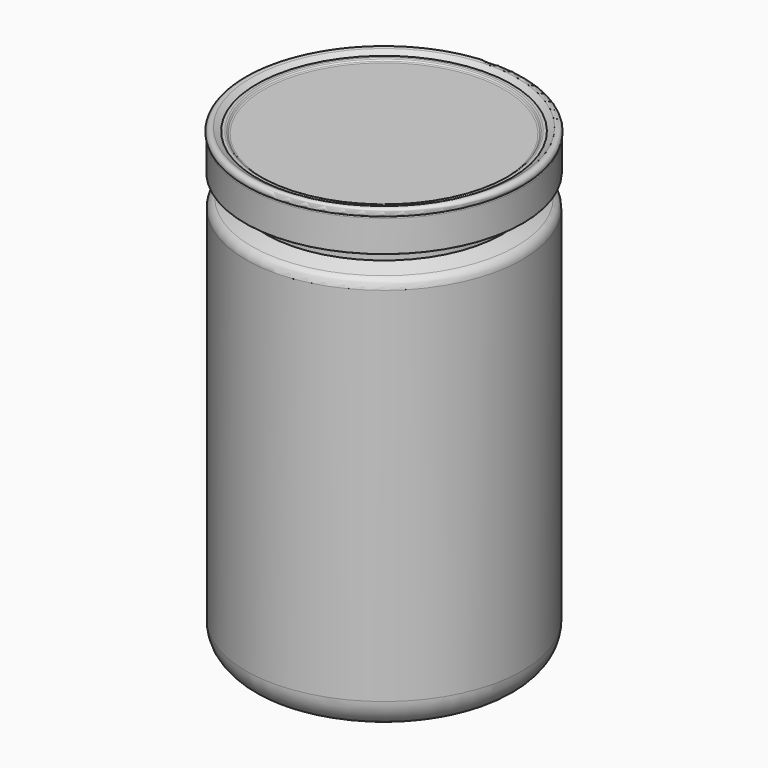
from build123d import *


with BuildPart() as f2:
    # F1 (on Front) → F2 (revolve)
    with BuildSketch(Plane.XZ):
        with BuildLine():
            Line((28.1, 103.3949926496), (28.1, 102.5035533906))
            Line((28.1, 102.5035533906), (32.9468340278, 102.5035533906))
            ThreePointArc((32.9468340278, 102.5035533906), (32.9844280473, 102.5191253433), (33, 102.5567193628))
            Line((33, 102.5567193628), (33, 110.0035533906))
            ThreePointArc((33, 110.0035533906), (32.9700295943, 110.1740590518), (32.883711278, 110.3241242176))
            ThreePointArc((32.883711278, 110.3241242176), (32.1691758877, 110.0037378372), (31.4428633988, 110.2964466094))
            Line((31.4428633988, 110.2964466094), (31.1464466094, 110.5928633988))
            Line((31.1464466094, 110.5928633988), (29.5606601718, 110.5928633988))
            Line((29.5606601718, 110.5928633988), (29.2642433824, 110.2964466094))
            ThreePointArc((29.2642433824, 110.2964466094), (28.9398200336, 110.0796738581), (28.5571366012, 110.0035533906))
            Line((28.5571366012, 110.0035533906), (28.2450320252, 110.0035533906))
            Line((28.2450320252, 110.0035533906), (28.1, 109.9240587884))
            Line((28.1, 109.9240587884), (28.1, 103.3949926496))
        make_face()
        with BuildLine():
            Line((30.2323976094, 111.0928633988), (28.2450320252, 110.0035533906))
            Line((28.2450320252, 110.0035533906), (28.5571366012, 110.0035533906))
            ThreePointArc((28.5571366012, 110.0035533906), (28.9398200336, 110.0796738581), (29.2642433824, 110.2964466094))
            Line((29.2642433824, 110.2964466094), (29.5606601718, 110.5928633988))
            Line((29.5606601718, 110.5928633988), (31.1464466094, 110.5928633988))
            Line((31.1464466094, 110.5928633988), (31.4428633988, 110.2964466094))
            ThreePointArc((31.4428633988, 110.2964466094), (32.1691758877, 110.0037378372), (32.883711278, 110.3241242176))
            ThreePointArc((32.883711278, 110.3241242176), (32.7117954042, 110.4564802133), (32.5, 110.5035533906))
            Line((32.5, 110.5035533906), (32.14997018, 110.5035533906))
            ThreePointArc((32.14997018, 110.5035533906), (31.9586284638, 110.5416136243), (31.7964167894, 110.65))
            Line((31.7964167894, 110.65), (31.5, 110.9464167894))
            ThreePointArc((31.5, 110.9464167894), (31.3377883256, 111.054803165), (31.1464466094, 111.0928633988))
            Line((31.1464466094, 111.0928633988), (30.2323976094, 111.0928633988))
        make_face()
        with BuildLine():
            Line((0, 110.0035533906), (28.2450320252, 110.0035533906))
            Line((28.2450320252, 110.0035533906), (30.2323976094, 111.0928633988))
            Line((30.2323976094, 111.0928633988), (29.5606601718, 111.0928633988))
            ThreePointArc((29.5606601718, 111.0928633988), (29.3693184556, 111.054803165), (29.2071067812, 110.9464167894))
            Line((29.2071067812, 110.9464167894), (28.9106899918, 110.65))
            ThreePointArc((28.9106899918, 110.65), (28.7484783174, 110.5416136243), (28.5571366012, 110.5035533906))
            Line((28.5571366012, 110.5035533906), (0, 110.5035533906))
            Line((0, 110.5035533906), (0, 110.0035533906))
        make_face()
        with BuildLine():
            ThreePointArc((32.5, 110.5035533906), (32.7117954042, 110.4564802133), (32.883711278, 110.3241242176))
            ThreePointArc((32.883711278, 110.3241242176), (32.9383629435, 111.6187256025), (31.6693192814, 111.8804654236))
            Line((31.6693192814, 111.8804654236), (30.2323976094, 111.0928633988))
            Line((30.2323976094, 111.0928633988), (31.1464466094, 111.0928633988))
            ThreePointArc((31.1464466094, 111.0928633988), (31.3377883256, 111.054803165), (31.5, 110.9464167894))
            Line((31.5, 110.9464167894), (31.7964167894, 110.65))
            ThreePointArc((31.7964167894, 110.65), (31.9586284638, 110.5416136243), (32.14997018, 110.5035533906))
            Line((32.14997018, 110.5035533906), (32.5, 110.5035533906))
        make_face()
    revolve(axis=Axis((0, 0, 27.9559288174), (0, 0, 1)))


with BuildPart() as f3:
    # F0 (on Front) → F3 (revolve)
    with BuildSketch(Plane.XZ):
        with BuildLine():
            Line((0, 4.0010205144), (0, 0))
            Line((0, 0), (24, 0))
            Line((24, 0), (25.9, 1.9))
            ThreePointArc((25.9, 1.9), (30.8497474683, 3.9502525317), (32.9, 8.9))
            Line((32.9, 8.9), (32.9, 94.9))
            ThreePointArc((32.9, 94.9), (32.494852076, 96.264402719), (31.4107241762, 97.1865774948))
            Line((31.4107241762, 97.1865774948), (28.1, 98.65))
            Line((28.1, 98.65), (28.1, 109.15))
            ThreePointArc((28.1, 109.15), (27.9535533906, 109.5035533906), (27.6, 109.65))
            Line((27.6, 109.65), (26.6, 109.65))
            ThreePointArc((26.6, 109.65), (26.2464466094, 109.5035533906), (26.1, 109.15))
            Line((26.1, 109.15), (26.1, 98.65))
            ThreePointArc((26.1, 98.65), (26.4241183392, 97.5584778248), (27.291420659, 96.8207380042))
            Line((27.291420659, 96.8207380042), (29.708579341, 95.7522936924))
            ThreePointArc((29.708579341, 95.7522936924), (30.5758816608, 95.0145538718), (30.9, 93.9230316966))
            Line((30.9, 93.9230316966), (30.9, 8.9))
            ThreePointArc((30.9, 8.9), (29.7729833462, 5.7377223398), (26.9, 4.0010205144))
            Line((26.9, 4.0010205144), (0, 4.0010205144))
        make_face()
    revolve(axis=Axis((0, 0, 27.9559288174), (0, 0, 1)))


solid = Compound([f2.part, f3.part])
